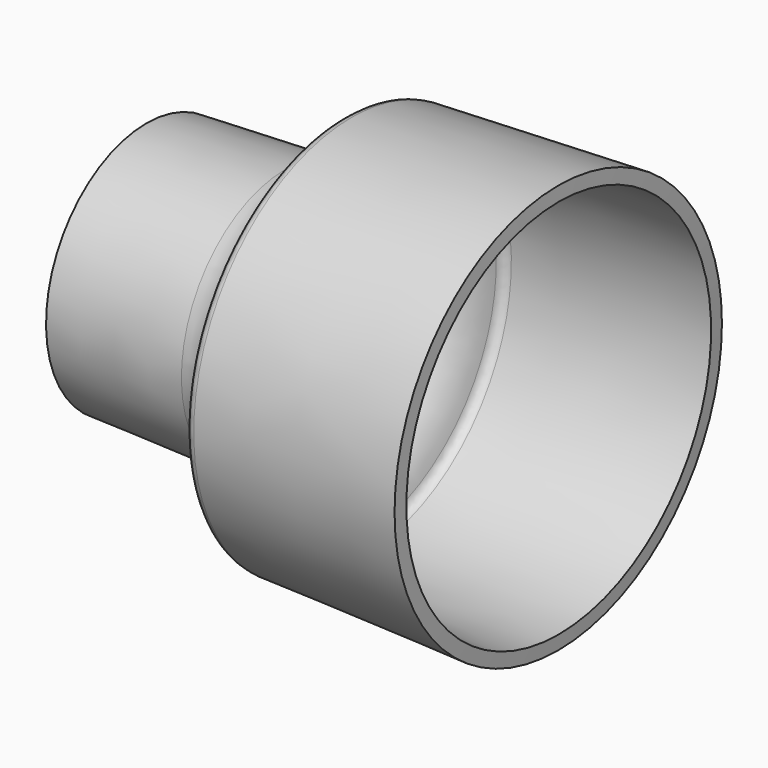
from build123d import *

# Parameters (mm, degrees)
F2_R    = 1.524
F3_R    = 1.524
F4_SIZE = 1.524


with BuildPart() as f1:
    # F0 (on Front) → F1 (revolve)
    with BuildSketch(Plane.XZ):
        with BuildLine():
            Line((-5.741719, 21.107047), (-28.279795, 20.32))
            Line((-28.279795, 20.32), (-28.200015, 18.035393))
            Line((-28.200015, 18.035393), (-5.661939, 18.82244))
            ThreePointArc((-5.661939, 18.82244), (2.087676, 22.089), (5.699217, 29.68398))
            Line((5.699217, 29.68398), (38.434368, 30.827117))
            Line((38.434368, 30.827117), (38.354588, 33.111724))
            Line((38.354588, 33.111724), (3.450864, 31.892859))
            Line((3.450864, 31.892859), (3.450864, 30.626245))
            ThreePointArc((3.450864, 30.626245), (0.777575, 24.009624), (-5.741719, 21.107047))
        make_face()
    revolve(axis=Axis((3.331136, 0, 0), (1, 0, 0)))

    # F2
    f2_edges = [f1.edges().sort_by_distance(p)[0] for p in [
        (3.450864, 0, -31.892859),
    ]]
    fillet(f2_edges, radius=F2_R)

    # F3
    f3_edges = [f1.edges().sort_by_distance(p)[0] for p in [
        (5.699217, 0, -29.68398),
    ]]
    fillet(f3_edges, radius=F3_R)

    # F4
    f4_edges = [f1.edges().sort_by_distance(p)[0] for p in [
        (-28.200015, 0, -18.035393),
    ]]
    chamfer(f4_edges, length=F4_SIZE)


solid = f1.part
